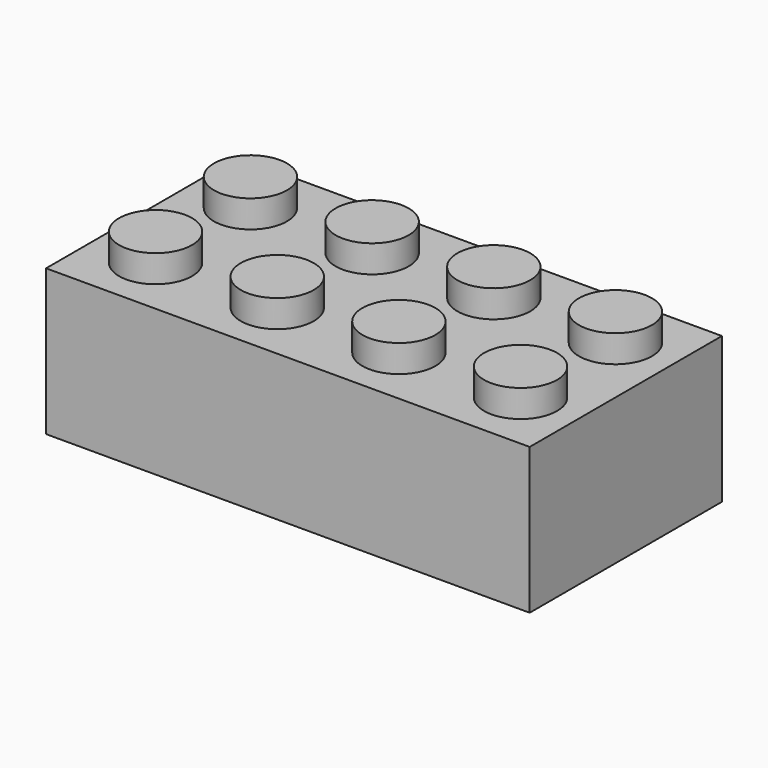
from build123d import *

# Parameters (mm, degrees)
SKETCH_W               = 47.7
SKETCH_H               = 23.7
PAD_DEPTH              = 14.4
SKETCH001_W            = 44.1
SKETCH001_H            = 20.1
POCKET_DEPTH           = 12.6
SKETCH002_R            = 3.6
PAD001_DEPTH           = 2.7
LINEARPATTERN_COUNT    = 4
LINEARPATTERN_PITCH    = 12
SKETCH003_R            = 4.8825
PAD002_DEPTH           = 12.6
LINEARPATTERN001_COUNT = 3
LINEARPATTERN001_PITCH = 12
SKETCH004_R            = 3.6
POCKET001_DEPTH        = 12.6
LINEARPATTERN002_COUNT = 3
LINEARPATTERN002_PITCH = 12


with BuildPart() as part:
    # Sketch → Pad (new body)
    with BuildSketch(Plane.XY):
        with Locations((23.85, -11.85)):
            Rectangle(SKETCH_W, SKETCH_H)
    extrude(amount=PAD_DEPTH)

    # Sketch001 → Pocket (cut)
    with BuildSketch(Plane.XY):
        with Locations((23.85, -11.85)):
            Rectangle(SKETCH001_W, SKETCH001_H)
    extrude(amount=POCKET_DEPTH, mode=Mode.SUBTRACT)

    # Sketch002 (on Face5 of Pocket) → Pad001 (join)
    with BuildSketch(Plane.XY.offset(14.4)):
        with Locations((6, -6)):
            Circle(SKETCH002_R)
        with Locations((6, -17.7)):
            Circle(SKETCH002_R)
    pad001 = extrude(amount=PAD001_DEPTH)

    # LinearPattern: Pad001 ×4
    with Locations(*[(i * LINEARPATTERN_PITCH, 0, 0) for i in range(1, LINEARPATTERN_COUNT)]):
        add(pad001)

    # Sketch003 (on Face4 of LinearPattern) → Pad002 (join)
    with BuildSketch(Plane(origin=(0, 0, 0), x_dir=(1, 0, 0), z_dir=(0, 0, -1))):
        with Locations((12, 12)):
            Circle(SKETCH003_R)
    pad002 = extrude(amount=-PAD002_DEPTH)

    # LinearPattern001: Pad002 ×3
    with Locations(*[(i * LINEARPATTERN001_PITCH, 0, 0) for i in range(1, LINEARPATTERN001_COUNT)]):
        add(pad002)

    # Sketch004 (on Face32 of LinearPattern001) → Pocket001 (cut)
    with BuildSketch(Plane(origin=(0, 0, 0), x_dir=(1, 0, 0), z_dir=(0, 0, -1))):
        with Locations((12, 12)):
            Circle(SKETCH004_R)
    pocket001 = extrude(amount=-POCKET001_DEPTH, mode=Mode.SUBTRACT)

    # LinearPattern002: Pocket001 ×3
    with Locations(*[(i * LINEARPATTERN002_PITCH, 0, 0) for i in range(1, LINEARPATTERN002_COUNT)]):
        add(pocket001, mode=Mode.SUBTRACT)


solid = part.part
